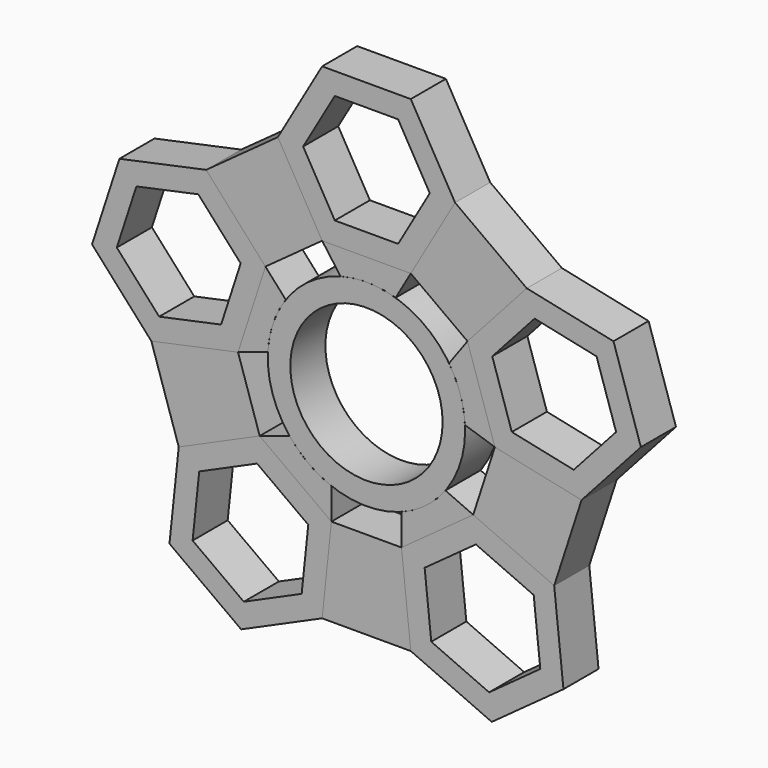
from build123d import *

# Parameters (mm, degrees)
F2_DEPTH = 6.35
F0_R     = 14.2875
F0_R_2   = 11.0236


with BuildPart() as f2:
    # F0 (on Front) → F2 (new body)
    with BuildSketch(Plane.XZ):
        Polygon((-6.4158048664, 17.4625), (6.4158048664, 17.4625), (12.8316097327, 28.575), (6.4158048664, 39.6875), (-6.4158048664, 39.6875), (-12.8316097327, 28.575), align=None)
        Polygon((9.1654355234, 28.575), (4.5827177617, 20.6375), (-4.5827177617, 20.6375), (-9.1654355234, 28.575), (-4.5827177617, 36.5125), (4.5827177617, 36.5125), align=None, mode=Mode.SUBTRACT)
    extrude(amount=F2_DEPTH)


with BuildPart() as f2b:
    # F0 (on Front) → F2, piece 2 (new body)
    with BuildSketch(Plane.XZ):
        Polygon((-18.5904171521, -0.7055837612), (-14.6252316795, 11.4980022897), (-23.2112544805, 21.0337466651), (-35.7624627542, 18.3659049897), (-39.7276482268, 6.1623189388), (-31.1416254257, -3.3734254366), align=None)
        Polygon((-33.3093133824, 15.6414065967), (-24.3441646156, 17.5470077935), (-18.2112911863, 10.735761811), (-21.0435665238, 2.0189146318), (-30.0087152907, 0.1133134351), (-36.14158872, 6.9245594175), align=None, mode=Mode.SUBTRACT)
    extrude(amount=F2_DEPTH)


with BuildPart() as f2c:
    # F0 (on Front) → F2, piece 3 (new body)
    with BuildSketch(Plane.XZ):
        Polygon((-5.0737047987, -17.8985747463), (-15.4546951376, -10.3563437822), (-27.1769539232, -15.5754296502), (-28.5182223698, -28.3367464822), (-18.1372320309, -35.8789774463), (-6.4149732453, -30.6598915783), align=None)
        Polygon((-25.169005574, -26.8455790914), (-24.2109566835, -17.7303527828), (-15.8379146938, -14.0024343057), (-8.4229215946, -19.3897421372), (-9.380970485, -28.5049684457), (-17.7540124747, -32.2328869229), align=None, mode=Mode.SUBTRACT)
    extrude(amount=F2_DEPTH)


with BuildPart() as f2d:
    # F0 (on Front) → F2, piece 4 (new body)
    with BuildSketch(Plane.XZ):
        Polygon((15.4546951376, -10.3563437822), (5.0737047987, -17.8985747463), (6.4149732453, -30.6598915783), (18.1372320309, -35.8789774463), (28.5182223698, -28.3367464822), (27.1769539232, -15.5754296502), align=None)
        Polygon((17.7540124747, -32.2328869229), (9.380970485, -28.5049684457), (8.4229215946, -19.3897421372), (15.8379146938, -14.0024343057), (24.2109566835, -17.7303527828), (25.169005574, -26.8455790914), align=None, mode=Mode.SUBTRACT)
    extrude(amount=F2_DEPTH)


with BuildPart() as f2e:
    # F0 (on Front) → F2, piece 5 (new body)
    with BuildSketch(Plane.XZ):
        Polygon((14.6252316795, 11.4980022897), (18.5904171521, -0.7055837612), (31.1416254257, -3.3734254366), (39.7276482268, 6.1623189388), (35.7624627542, 18.3659049897), (23.2112544805, 21.0337466651), align=None)
        Polygon((36.14158872, 6.9245594175), (30.0087152907, 0.1133134351), (21.0435665238, 2.0189146318), (18.2112911863, 10.735761811), (24.3441646156, 17.5470077935), (33.3093133824, 15.6414065967), align=None, mode=Mode.SUBTRACT)
    extrude(amount=F2_DEPTH)


with BuildPart() as f2f:
    # F0 (on Front) → F2, piece 6 (new body)
    with BuildSketch(Plane.XZ):
        Circle(F0_R)
        Circle(F0_R_2, mode=Mode.SUBTRACT)
    extrude(amount=F2_DEPTH)


with BuildPart() as f2g:
    # F1 (on Front) → F2, piece 7 (new body)
    with BuildSketch(Plane.XZ):
        Polygon((-18.5904171521, -0.7055837612), (-24.8660210684, -2.039504552), (-31.1416254257, -3.3734254366), (-27.1769539232, -15.5754296502), (-21.315824511, -12.9658867075), (-15.4546951376, -10.3563437822), align=None)
    extrude(amount=F2_DEPTH)


with BuildPart() as f2h:
    # F1 (on Front) → F2, piece 8 (new body)
    with BuildSketch(Plane.XZ):
        Polygon((5.7443390338, -24.2792332749), (5.0737047987, -17.8985747463), (-5.0737047987, -17.8985747463), (-5.7443390492, -24.2792334216), (-6.4149732453, -30.6598915783), (6.4149732453, -30.6598915783), align=None)
    extrude(amount=F2_DEPTH)


with BuildPart() as f2i:
    # F1 (on Front) → F2, piece 9 (new body)
    with BuildSketch(Plane.XZ):
        Polygon((24.8660214244, -2.0395046277), (18.5904171521, -0.7055837612), (15.4546951376, -10.3563437822), (21.3158242932, -12.9658866106), (27.1769539232, -15.5754296502), (31.1416254257, -3.3734254366), align=None)
    extrude(amount=F2_DEPTH)


with BuildPart() as f2j:
    # F1 (on Front) → F2, piece 10 (new body)
    with BuildSketch(Plane.XZ):
        Polygon((18.918243317, 16.2658747406), (23.2112544805, 21.0337466651), (12.8316097327, 28.575), (9.6237072438, 23.0187499034), (6.4158048664, 17.4625), (14.6252316795, 11.4980022897), align=None)
    extrude(amount=F2_DEPTH)


with BuildPart() as f2k:
    # F1 (on Front) → F2, piece 11 (new body)
    with BuildSketch(Plane.XZ):
        Polygon((-6.4158048664, 17.4625), (-9.6237073033, 23.0187500066), (-12.8316097327, 28.575), (-23.2112544805, 21.0337466651), (-18.918243317, 16.2658747406), (-14.6252316795, 11.4980022897), align=None)
    extrude(amount=F2_DEPTH)


with BuildPart() as f2l:
    # F1 (on Front) → F2, piece 12 (new body)
    with BuildSketch(Plane.XZ):
        with BuildLine():
            Line((-10.2641997882, -14.127459395), (-5.0737047987, -17.8985747463))
            Line((-5.0737047987, -17.8985747463), (-5.0737047987, -13.3562785186))
            ThreePointArc((-5.0737047987, -13.3562785186), (-8.3979817921, -11.5588303071), (-11.1347147113, -8.9526970544))
            Line((-11.1347147113, -8.9526970544), (-15.4546951376, -10.3563437822))
            Line((-15.4546951376, -10.3563437822), (-10.2641997882, -14.127459395))
        make_face()
    extrude(amount=F2_DEPTH)


with BuildPart() as f2m:
    # F1 (on Front) → F2, piece 13 (new body)
    with BuildSketch(Plane.XZ):
        with BuildLine():
            Line((10.2641999769, -14.1274592579), (15.4546951376, -10.3563437822))
            Line((15.4546951376, -10.3563437822), (11.4345332188, -8.5664523764))
            ThreePointArc((11.4345332188, -8.5664523764), (8.5945383372, -11.4134380018), (5.0737047987, -13.3562785186))
            Line((5.0737047987, -13.3562785186), (5.0737047987, -17.8985747463))
            Line((5.0737047987, -17.8985747463), (10.2641999769, -14.1274592579))
        make_face()
    extrude(amount=F2_DEPTH)


with BuildPart() as f2n:
    # F1 (on Front) → F2, piece 14 (new body)
    with BuildSketch(Plane.XZ):
        with BuildLine():
            Line((16.6078243421, 5.396209491), (14.6252316795, 11.4980022897))
            Line((14.6252316795, 11.4980022897), (11.9553369453, 7.823207448))
            ThreePointArc((11.9553369453, 7.823207448), (13.5882199766, 4.4150803071), (14.2704367258, 0.6980629667))
            Line((14.2704367258, 0.6980629667), (18.5904171521, -0.7055837612))
            Line((18.5904171521, -0.7055837612), (16.6078243421, 5.396209491))
        make_face()
    extrude(amount=F2_DEPTH)


with BuildPart() as f2o:
    # F1 (on Front) → F2, piece 15 (new body)
    with BuildSketch(Plane.XZ):
        with BuildLine():
            Line((-11.6806454415, 8.2277079628), (-14.6252316795, 11.4980022897))
            Line((-14.6252316795, 11.4980022897), (-16.6078244895, 5.3962090375))
            Line((-16.6078244895, 5.3962090375), (-18.5904171521, -0.7055837612))
            Line((-18.5904171521, -0.7055837612), (-14.2704367258, 0.6980629667))
            ThreePointArc((-14.2704367258, 0.6980629667), (-13.5106829899, 4.6469453833), (-11.6806454415, 8.2277079628))
        make_face()
    extrude(amount=F2_DEPTH)


with BuildPart() as f2p:
    # F1 (on Front) → F2, piece 16 (new body)
    with BuildSketch(Plane.XZ):
        with BuildLine():
            Line((4.2154973255, 13.6514555469), (6.4158048664, 17.4625))
            Line((6.4158048664, 17.4625), (0, 17.4625))
            Line((0, 17.4625), (-6.4158048664, 17.4625))
            Line((-6.4158048664, 17.4625), (-3.7459101322, 13.7877051583))
            ThreePointArc((-3.7459101322, 13.7877051583), (0.2444770381, 14.2854081926), (4.2154973255, 13.6514555469))
        make_face()
    extrude(amount=F2_DEPTH)


solid = Compound([f2.part, f2b.part, f2c.part, f2d.part, f2e.part, f2f.part, f2g.part, f2h.part, f2i.part, f2j.part, f2k.part, f2l.part, f2m.part, f2n.part, f2o.part, f2p.part])
